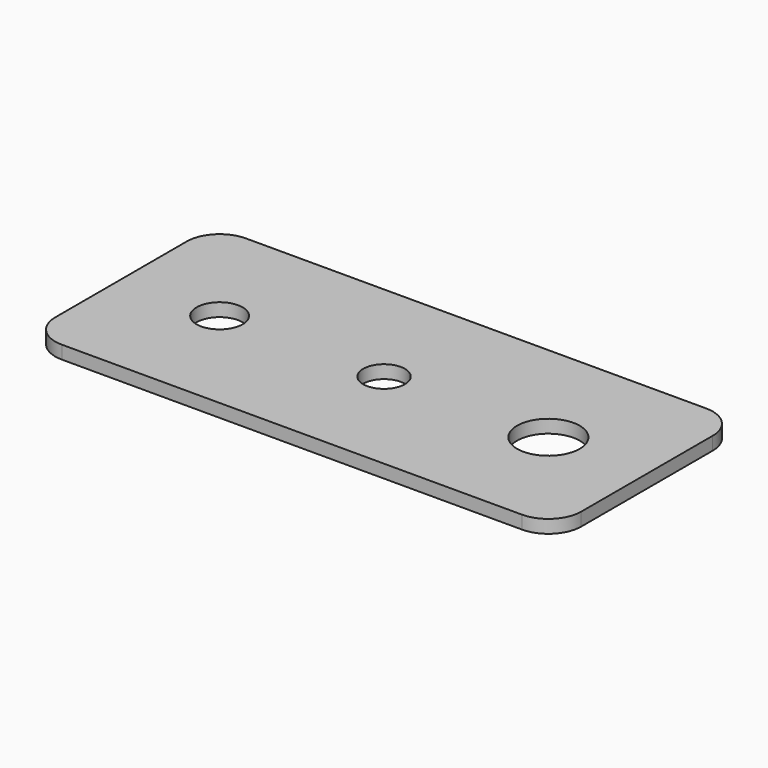
from build123d import *

# Parameters (mm, degrees)
F0_R     = 3.5
F0_R_2   = 3.175
F0_R_3   = 4.7625
F1_DEPTH = 2


with BuildPart() as f1:
    # F0 (on Top) → F1 (new body)
    with BuildSketch(Plane.XY):
        with BuildLine():
            ThreePointArc((40, 12.5), (38.535534, 16.035534), (35, 17.5))
            Line((35, 17.5), (-35, 17.5))
            ThreePointArc((-35, 17.5), (-38.535534, 16.035534), (-40, 12.5))
            Line((-40, 12.5), (-40, -12.5))
            ThreePointArc((-40, -12.5), (-38.535534, -16.035534), (-35, -17.5))
            Line((-35, -17.5), (35, -17.5))
            ThreePointArc((35, -17.5), (38.535534, -16.035534), (40, -12.5))
            Line((40, -12.5), (40, 12.5))
        make_face()
        with Locations((-25, 0)):
            Circle(F0_R, mode=Mode.SUBTRACT)
        Circle(F0_R_2, mode=Mode.SUBTRACT)
        with Locations((25, 0)):
            Circle(F0_R_3, mode=Mode.SUBTRACT)
    extrude(amount=F1_DEPTH)


solid = f1.part
